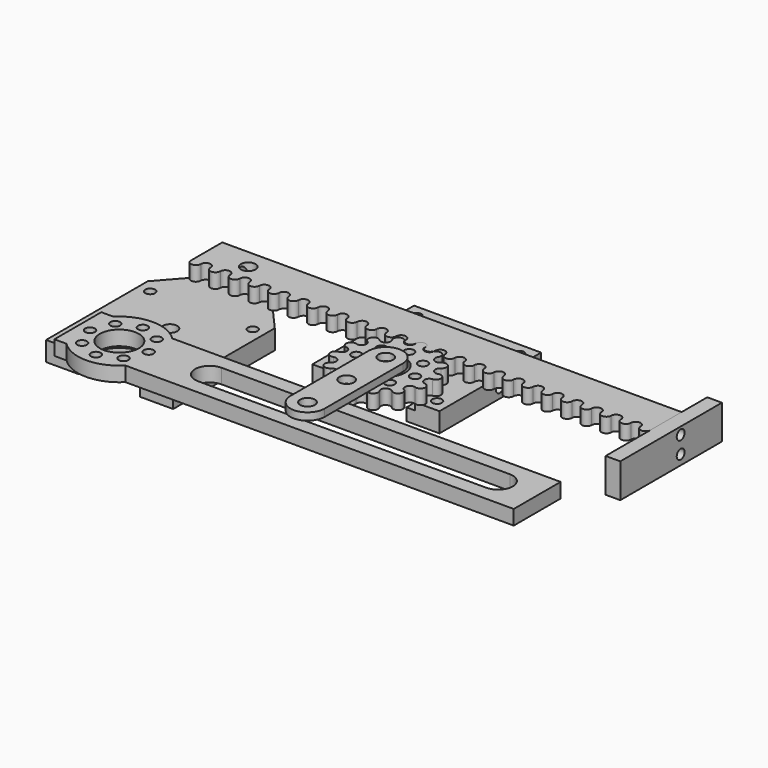
from build123d import *

# Parameters (mm, degrees)
F1_DEPTH  = 3
F2_R      = 1
F2_R_2    = 4
F3_DEPTH  = 3
F4_R      = 1
F4_R_2    = 1.5
F5_DEPTH  = 4
F7_DEPTH  = 1.5
F8_R      = 1
F8_R_2    = 4
F9_DEPTH  = 3
F10_R     = 1.5
F11_DEPTH = 1.5
F12_R     = 1
F12_R_2   = 1.5
F13_DEPTH = 4
F14_DEPTH = 1.5
F15_R     = 1.5
F16_DEPTH = 3
F17_R     = 1.5
F18_DEPTH = 4
F19_R     = 1
F20_DEPTH = 98.501
F21_W     = 26
F21_H     = 7
F21_R     = 1
F22_DEPTH = 3


with BuildPart() as f1:
    # F0 (on Top) → F1 (new body)
    with BuildSketch(Plane.XY):
        with BuildLine():
            Line((25, 8), (-25, 8))
            Line((-25, 8), (-25, 0))
            ThreePointArc((-25, 0), (-24, -1), (-23, 0))
            ThreePointArc((-23, 0), (-22, 1), (-21, 0))
            ThreePointArc((-21, 0), (-20, -1), (-19, 0))
            ThreePointArc((-19, 0), (-18, 1), (-17, 0))
            ThreePointArc((-17, 0), (-16, -1), (-15, 0))
            ThreePointArc((-15, 0), (-14, 1), (-13, 0))
            ThreePointArc((-13, 0), (-12, -1), (-11, 0))
            ThreePointArc((-11, 0), (-10, 1), (-9, 0))
            ThreePointArc((-9, 0), (-8, -1), (-7, 0))
            ThreePointArc((-7, 0), (-6, 1), (-5, 0))
            ThreePointArc((-5, 0), (-4, -1), (-3, 0))
            ThreePointArc((-3, 0), (-2, 1), (-1, 0))
            ThreePointArc((-1, 0), (0, -1), (1, 0))
            ThreePointArc((1, 0), (2, 1), (3, 0))
            ThreePointArc((3, 0), (4, -1), (5, 0))
            ThreePointArc((5, 0), (6, 1), (7, 0))
            ThreePointArc((7, 0), (8, -1), (9, 0))
            ThreePointArc((9, 0), (10, 1), (11, 0))
            ThreePointArc((11, 0), (12, -1), (13, 0))
            ThreePointArc((13, 0), (14, 1), (15, 0))
            ThreePointArc((15, 0), (16, -1), (17, 0))
            ThreePointArc((17, 0), (18, 1), (19, 0))
            ThreePointArc((19, 0), (20, -1), (21, 0))
            ThreePointArc((21, 0), (22, 1), (23, 0))
            ThreePointArc((23, 0), (24, -1), (25, 0))
            ThreePointArc((25, 0), (26, 1), (27, 0))
            ThreePointArc((27, 0), (28, -1), (29, 0))
            ThreePointArc((29, 0), (30, 1), (31, 0))
            ThreePointArc((31, 0), (32, -1), (33, 0))
            ThreePointArc((33, 0), (34, 1), (35, 0))
            ThreePointArc((35, 0), (36, -1), (37, 0))
            ThreePointArc((37, 0), (38, 1), (39, 0))
            ThreePointArc((39, 0), (40, -1), (41, 0))
            ThreePointArc((41, 0), (42, 1), (43, 0))
            ThreePointArc((43, 0), (44, -1), (45, 0))
            ThreePointArc((45, 0), (46, 1), (47, 0))
            ThreePointArc((47, 0), (48, -1), (49, 0))
            ThreePointArc((49, 0), (50, 1), (51, 0))
            ThreePointArc((51, 0), (52, -1), (53, 0))
            ThreePointArc((53, 0), (54, 1), (55, 0))
            ThreePointArc((55, 0), (56, -1), (57, 0))
            ThreePointArc((57, 0), (58, 1), (59, 0))
            ThreePointArc((59, 0), (60, -1), (61, 0))
            ThreePointArc((61, 0), (62, 1), (63, 0))
            ThreePointArc((63, 0), (64, -1), (65, 0))
            ThreePointArc((65, 0), (66, 1), (67, 0))
            ThreePointArc((67, 0), (68, -1), (69, 0))
            Line((69, 0), (69, 8))
            Line((69, 8), (57, 8))
            Line((57, 8), (25, 8))
        make_face()
    extrude(amount=F1_DEPTH)

    # F15 (on face) → F16 (cut, through all)
    with BuildSketch(Plane.XY.offset(3)):
        with Locations((-16.5, 4)):
            Circle(F15_R)
    extrude(amount=-F16_DEPTH, mode=Mode.SUBTRACT)


with BuildPart() as f3:
    # F2 (on Top) → F3 (new body)
    with BuildSketch(Plane.XY):
        with BuildLine():
            ThreePointArc((24.931308, -0.564208), (23.764903, -1.208857), (22.993712, -0.121964))
            ThreePointArc((22.993712, -0.121964), (22, 0.99), (21.006288, -0.121964))
            ThreePointArc((21.006288, -0.121964), (20.235097, -1.208857), (19.068692, -0.564208))
            ThreePointArc((19.068692, -0.564208), (17.690925, 0.006482), (17.278085, -1.426519))
            ThreePointArc((17.278085, -1.426519), (17.05485, -2.740383), (15.724254, -2.665658))
            ThreePointArc((15.724254, -2.665658), (14.235315, -2.749275), (14.485115, -4.219489))
            ThreePointArc((14.485115, -4.219489), (14.854052, -5.500097), (13.622804, -6.010097))
            ThreePointArc((13.622804, -6.010097), (12.317597, -6.731459), (13.18056, -7.947692))
            ThreePointArc((13.18056, -7.947692), (14.068596, -8.941404), (13.18056, -9.935116))
            ThreePointArc((13.18056, -9.935116), (12.317597, -11.15135), (13.622804, -11.872712))
            ThreePointArc((13.622804, -11.872712), (14.854052, -12.382712), (14.485115, -13.66332))
            ThreePointArc((14.485115, -13.66332), (14.235315, -15.133534), (15.724254, -15.217151))
            ThreePointArc((15.724254, -15.217151), (17.05485, -15.142426), (17.278085, -16.456289))
            ThreePointArc((17.278085, -16.456289), (17.690925, -17.88929), (19.068692, -17.318601))
            ThreePointArc((19.068692, -17.318601), (20.235097, -16.673952), (21.006288, -17.760844))
            ThreePointArc((21.006288, -17.760844), (22, -18.872809), (22.993712, -17.760844))
            ThreePointArc((22.993712, -17.760844), (23.764903, -16.673952), (24.931308, -17.318601))
            ThreePointArc((24.931308, -17.318601), (26.309075, -17.88929), (26.721915, -16.456289))
            ThreePointArc((26.721915, -16.456289), (26.94515, -15.142426), (28.275746, -15.217151))
            ThreePointArc((28.275746, -15.217151), (29.764685, -15.133534), (29.514885, -13.66332))
            ThreePointArc((29.514885, -13.66332), (29.145948, -12.382712), (30.377196, -11.872712))
            ThreePointArc((30.377196, -11.872712), (31.682403, -11.15135), (30.81944, -9.935116))
            ThreePointArc((30.81944, -9.935116), (29.931404, -8.941404), (30.81944, -7.947692))
            ThreePointArc((30.81944, -7.947692), (31.682403, -6.731459), (30.377196, -6.010097))
            ThreePointArc((30.377196, -6.010097), (29.145948, -5.500097), (29.514885, -4.219489))
            ThreePointArc((29.514885, -4.219489), (29.764685, -2.749275), (28.275746, -2.665658))
            ThreePointArc((28.275746, -2.665658), (26.94515, -2.740383), (26.721915, -1.426519))
            ThreePointArc((26.721915, -1.426519), (26.309075, 0.006482), (24.931308, -0.564208))
        make_face()
        with Locations((22, -14.941404)):
            Circle(F2_R, mode=Mode.SUBTRACT)
        with Locations((17.757359, -13.184045)):
            Circle(F2_R, mode=Mode.SUBTRACT)
        with Locations((26.242641, -13.184045)):
            Circle(F2_R, mode=Mode.SUBTRACT)
        with Locations((28, -8.941404)):
            Circle(F2_R, mode=Mode.SUBTRACT)
        with Locations((16, -8.941404)):
            Circle(F2_R, mode=Mode.SUBTRACT)
        with Locations((22, -8.941404)):
            Circle(F2_R_2, mode=Mode.SUBTRACT)
        with Locations((17.757359, -4.698764)):
            Circle(F2_R, mode=Mode.SUBTRACT)
        with Locations((22, -2.941404)):
            Circle(F2_R, mode=Mode.SUBTRACT)
        with Locations((26.242641, -4.698764)):
            Circle(F2_R, mode=Mode.SUBTRACT)
    extrude(amount=F3_DEPTH)


with BuildPart() as f5:
    # F4 (on Top) → F5 (new body)
    with BuildSketch(Plane.XY):
        with BuildLine():
            ThreePointArc((15.75, -8.941404), (22, -2.691404), (28.25, -8.941404))
            Line((28.25, -8.941404), (28.25, -11.441404))
            Line((28.25, -11.441404), (35, -11.441404))
            Line((35, -11.441404), (35, 14.558596))
            Line((35, 14.558596), (9, 14.558596))
            Line((9, 14.558596), (9, -11.441404))
            Line((9, -11.441404), (15.75, -11.441404))
            Line((15.75, -11.441404), (15.75, -8.941404))
        make_face()
        with Locations((11.5, -8.941404)):
            Circle(F4_R, mode=Mode.SUBTRACT)
        with Locations((32.5, -8.941404)):
            Circle(F4_R, mode=Mode.SUBTRACT)
        with Locations((11.5, 12.058596)):
            Circle(F4_R, mode=Mode.SUBTRACT)
        with Locations((17, 11)):
            Circle(F4_R_2, mode=Mode.SUBTRACT)
        with Locations((22, 11)):
            Circle(F4_R_2, mode=Mode.SUBTRACT)
        with Locations((27, 11)):
            Circle(F4_R_2, mode=Mode.SUBTRACT)
        with Locations((32.5, 12.058596)):
            Circle(F4_R, mode=Mode.SUBTRACT)
        with Locations((22, 11)):
            Circle(F4_R_2)
    extrude(amount=-F5_DEPTH)

    # F6 (on face) → F7 (cut)
    with BuildSketch(Plane.XY):
        with BuildLine():
            ThreePointArc((15.75, -8.941404), (22, -2.691404), (28.25, -8.941404))
            Line((28.25, -8.941404), (28.25, -11.441404))
            Line((28.25, -11.441404), (30, -11.441404))
            Line((30, -11.441404), (30, -8.941404))
            ThreePointArc((30, -8.941404), (22, -0.941404), (14, -8.941404))
            Line((14, -8.941404), (14, -11.441404))
            Line((14, -11.441404), (15.75, -11.441404))
            Line((15.75, -11.441404), (15.75, -8.941404))
        make_face()
    extrude(amount=-F7_DEPTH, mode=Mode.SUBTRACT)


with BuildPart() as f9:
    # F8 (on Top) → F9 (new body)
    with BuildSketch(Plane.XY):
        with BuildLine():
            Line((-22.520797, -22.941404), (-25, -22.941404))
            Line((-25, -22.941404), (-25, -34.941404))
            Line((-25, -34.941404), (-22.520797, -34.941404))
            Line((-22.520797, -34.941404), (-17.5, -34.941404))
            ThreePointArc((-17.5, -34.941404), (-16.5, -33.941404), (-15.5, -34.941404))
            Line((-15.5, -34.941404), (-10.479203, -34.941404))
            Line((-10.479203, -34.941404), (69, -34.941404))
            Line((69, -34.941404), (69, -22.941404))
            Line((69, -22.941404), (-10.479203, -22.941404))
            Line((-10.479203, -22.941404), (-15.5, -22.941404))
            ThreePointArc((-15.5, -22.941404), (-16.5, -23.941404), (-17.5, -22.941404))
            Line((-17.5, -22.941404), (-22.520797, -22.941404))
        make_face()
        with Locations((-20.742641, -33.184045)):
            Circle(F8_R, mode=Mode.SUBTRACT)
        with Locations((-12.257359, -33.184045)):
            Circle(F8_R, mode=Mode.SUBTRACT)
        with BuildLine():
            ThreePointArc((61, -25.941404), (63.12132, -26.820084), (64, -28.941404))
            ThreePointArc((64, -28.941404), (63.12132, -31.062725), (61, -31.941404))
            Line((61, -31.941404), (2, -31.941404))
            ThreePointArc((2, -31.941404), (-1, -28.941404), (2, -25.941404))
            Line((2, -25.941404), (61, -25.941404))
        make_face(mode=Mode.SUBTRACT)
        with Locations((-22.5, -28.941404)):
            Circle(F8_R, mode=Mode.SUBTRACT)
        with Locations((-16.5, -28.941404)):
            Circle(F8_R_2, mode=Mode.SUBTRACT)
        with Locations((-10.5, -28.941404)):
            Circle(F8_R, mode=Mode.SUBTRACT)
        with Locations((-20.742641, -24.698764)):
            Circle(F8_R, mode=Mode.SUBTRACT)
        with Locations((-12.257359, -24.698764)):
            Circle(F8_R, mode=Mode.SUBTRACT)
        with BuildLine():
            ThreePointArc((-10.479203, -22.941404), (-16.5, -20.441404), (-22.520797, -22.941404))
            Line((-22.520797, -22.941404), (-17.5, -22.941404))
            ThreePointArc((-17.5, -22.941404), (-16.5, -21.941404), (-15.5, -22.941404))
            Line((-15.5, -22.941404), (-10.479203, -22.941404))
        make_face()
        with BuildLine():
            Line((-17.5, -34.941404), (-22.520797, -34.941404))
            ThreePointArc((-22.520797, -34.941404), (-16.5, -37.441404), (-10.479203, -34.941404))
            Line((-10.479203, -34.941404), (-15.5, -34.941404))
            ThreePointArc((-15.5, -34.941404), (-16.5, -35.941404), (-17.5, -34.941404))
        make_face()
    extrude(amount=F9_DEPTH)


with BuildPart() as f11:
    # F10 (on face) → F11 (new body)
    with BuildSketch(Plane.XY.offset(3)):
        with BuildLine():
            Line((25.5, -28.941404), (25.5, -8.941404))
            ThreePointArc((25.5, -8.941404), (22, -5.441404), (18.5, -8.941404))
            Line((18.5, -8.941404), (18.5, -28.941404))
            ThreePointArc((18.5, -28.941404), (22, -32.441404), (25.5, -28.941404))
        make_face()
        with Locations((22, -28.941404)):
            Circle(F10_R, mode=Mode.SUBTRACT)
        with Locations((22, -18.941404)):
            Circle(F10_R, mode=Mode.SUBTRACT)
        with Locations((22, -8.941404)):
            Circle(F10_R, mode=Mode.SUBTRACT)
    extrude(amount=F11_DEPTH)


with BuildPart() as f13:
    # F12 (on Top) → F13 (new body)
    with BuildSketch(Plane.XY):
        with BuildLine():
            ThreePointArc((-22.75, -28.941404), (-16.5, -22.691404), (-10.25, -28.941404))
            Line((-10.25, -28.941404), (-10.25, -31.441404))
            Line((-10.25, -31.441404), (-8.5, -31.441404))
            Line((-8.5, -31.441404), (-8.5, -28.941404))
            ThreePointArc((-8.5, -28.941404), (-16.5, -20.941404), (-24.5, -28.941404))
            Line((-24.5, -28.941404), (-24.5, -31.441404))
            Line((-24.5, -31.441404), (-22.75, -31.441404))
            Line((-22.75, -31.441404), (-22.75, -28.941404))
        make_face()
        with BuildLine():
            Line((-8.5, -28.941404), (-8.5, -31.441404))
            Line((-8.5, -31.441404), (-3.5, -31.441404))
            Line((-3.5, -31.441404), (-3.5, -5.441404))
            Line((-3.5, -5.441404), (-29.5, -5.441404))
            Line((-29.5, -5.441404), (-29.5, -31.441404))
            Line((-29.5, -31.441404), (-24.5, -31.441404))
            Line((-24.5, -31.441404), (-24.5, -28.941404))
            ThreePointArc((-24.5, -28.941404), (-16.5, -20.941404), (-8.5, -28.941404))
        make_face()
        with Locations((-27, -28.941404)):
            Circle(F12_R, mode=Mode.SUBTRACT)
        with Locations((-6, -28.941404)):
            Circle(F12_R, mode=Mode.SUBTRACT)
        with Locations((-27, -7.941404)):
            Circle(F12_R, mode=Mode.SUBTRACT)
        with Locations((-6, -7.941404)):
            Circle(F12_R, mode=Mode.SUBTRACT)
        with BuildLine():
            Line((-29.5, -5.441404), (-3.5, -5.441404))
            Line((-3.5, -5.441404), (-13.875753, 6.315886))
            ThreePointArc((-13.875753, 6.315886), (-16.5, 7.5), (-19.124247, 6.315886))
            Line((-19.124247, 6.315886), (-29.5, -5.441404))
        make_face()
        with Locations((-16.5, 4)):
            Circle(F12_R_2, mode=Mode.SUBTRACT)
    extrude(amount=-F13_DEPTH)

    # F12 (on Top) → F14 (cut)
    with BuildSketch(Plane.XY):
        with BuildLine():
            ThreePointArc((-22.75, -28.941404), (-16.5, -22.691404), (-10.25, -28.941404))
            Line((-10.25, -28.941404), (-10.25, -31.441404))
            Line((-10.25, -31.441404), (-8.5, -31.441404))
            Line((-8.5, -31.441404), (-8.5, -28.941404))
            ThreePointArc((-8.5, -28.941404), (-16.5, -20.941404), (-24.5, -28.941404))
            Line((-24.5, -28.941404), (-24.5, -31.441404))
            Line((-24.5, -31.441404), (-22.75, -31.441404))
            Line((-22.75, -31.441404), (-22.75, -28.941404))
        make_face()
    extrude(amount=-F14_DEPTH, mode=Mode.SUBTRACT)

    # F17 (on face) → F18 (cut, through all)
    with BuildSketch(Plane.XY):
        with Locations((-16.5, -16.000004)):
            Circle(F17_R)
    extrude(amount=-F18_DEPTH, mode=Mode.SUBTRACT)


with BuildPart() as f20_tool:
    # F19 (on face) → F20 (new body, through all)
    with BuildSketch(Plane.YZ.offset(69)):
        with Locations((4, 1.5)):
            Circle(F19_R)
        with Locations((4, -2)):
            Circle(F19_R)
    extrude(amount=-F20_DEPTH)


with BuildPart() as f1_1:
    add(f1.part)

    # F20: cut by f20_tool
    add(f20_tool.part, mode=Mode.SUBTRACT)


with BuildPart() as f5_1:
    add(f5.part)

    # F20: cut by f20_tool
    add(f20_tool.part, mode=Mode.SUBTRACT)


with BuildPart() as f13_1:
    add(f13.part)

    # F20: cut by f20_tool
    add(f20_tool.part, mode=Mode.SUBTRACT)


with BuildPart() as f22:
    # F21 (on face) → F22 (new body)
    with BuildSketch(Plane.YZ.offset(69)):
        with Locations((1.558596, -0.5)):
            Rectangle(F21_W, F21_H)
        with Locations((4, -2)):
            Circle(F21_R, mode=Mode.SUBTRACT)
        with Locations((4, 1.5)):
            Circle(F21_R, mode=Mode.SUBTRACT)
    extrude(amount=F22_DEPTH)


solid = Compound([f3.part, f9.part, f11.part, f1_1.part, f5_1.part, f13_1.part, f22.part])
